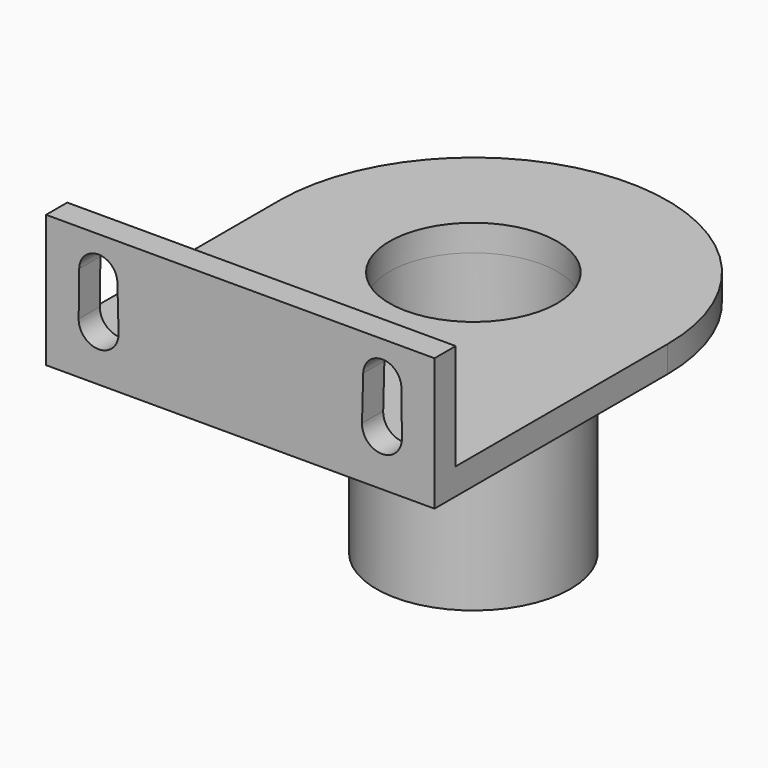
from build123d import *

# Parameters (mm, degrees)
F0_R     = 11
F0_R_2   = 9.5
F1_DEPTH = 3
F0_W     = 44
F0_H     = 3
F2_DEPTH = 15
F3_DEPTH = 25
F5_DEPTH = 50


with BuildPart() as f1:
    # F0 (on Top) → F1 (new body)
    with BuildSketch(Plane.XY):
        with BuildLine():
            Line((22, -30), (22, 0))
            ThreePointArc((22, 0), (0, -22), (-22, 0))
            Line((-22, 0), (-22, -30))
            Line((-22, -30), (22, -30))
        make_face()
        with BuildLine():
            ThreePointArc((-22, 0), (0, -22), (22, 0))
            ThreePointArc((22, 0), (0, 22), (-22, 0))
        make_face()
        Circle(F0_R, mode=Mode.SUBTRACT)
        Circle(F0_R)
        Circle(F0_R_2, mode=Mode.SUBTRACT)
    extrude(amount=F1_DEPTH)

    # F0 (on Top) → F2 (join)
    with BuildSketch(Plane.XY):
        with Locations((0, -31.5)):
            Rectangle(F0_W, F0_H)
    extrude(amount=F2_DEPTH)

    # F0 (on Top) → F3 (join)
    with BuildSketch(Plane.XY):
        Circle(F0_R)
        Circle(F0_R_2, mode=Mode.SUBTRACT)
    extrude(amount=-F3_DEPTH)

    # F4 (on Front) → F5 (cut)
    with BuildSketch(Plane.XZ):
        with BuildLine():
            ThreePointArc((-18.249251, 10.8364), (-16.097239, 8.645825), (-13.919441, 10.810768))
            ThreePointArc((-13.919441, 10.810768), (-13.91963, 10.839348), (-13.920196, 10.867923))
            ThreePointArc((-13.920196, 10.867923), (-16.100186, 12.975691), (-18.249251, 10.8364))
        make_face()
        with BuildLine():
            ThreePointArc((-13.920196, 10.867923), (-13.91963, 10.839348), (-13.919441, 10.810768))
            ThreePointArc((-13.919441, 10.810768), (-16.097239, 8.645825), (-18.249251, 10.8364))
            Line((-18.249251, 10.8364), (-18.308776, 5.809141))
            ThreePointArc((-18.308776, 5.809141), (-16.064272, 8.043438), (-13.787468, 5.842063))
            Line((-13.787468, 5.842063), (-13.920196, 10.867923))
        make_face()
        with BuildLine():
            ThreePointArc((-13.78668, 5.78237), (-13.786877, 5.812219), (-13.787468, 5.842063))
            ThreePointArc((-13.787468, 5.842063), (-16.064272, 8.043438), (-18.308776, 5.809141))
            ThreePointArc((-18.308776, 5.809141), (-16.061193, 3.521282), (-13.78668, 5.78237))
        make_face()
        with BuildLine():
            ThreePointArc((18.249403, 10.810768), (16.055842, 8.645976), (13.920196, 10.867923))
            Line((13.920196, 10.867923), (13.787468, 5.842063))
            ThreePointArc((13.787468, 5.842063), (16.064272, 8.043438), (18.308776, 5.809141))
            Line((18.308776, 5.809141), (18.249251, 10.8364))
            ThreePointArc((18.249251, 10.8364), (18.249365, 10.823584), (18.249403, 10.810768))
        make_face()
        with BuildLine():
            ThreePointArc((18.249251, 10.8364), (16.100186, 12.975691), (13.920196, 10.867923))
            ThreePointArc((13.920196, 10.867923), (16.055842, 8.645976), (18.249403, 10.810768))
            ThreePointArc((18.249403, 10.810768), (18.249365, 10.823584), (18.249251, 10.8364))
        make_face()
        with BuildLine():
            ThreePointArc((18.308776, 5.809141), (16.064272, 8.043438), (13.787468, 5.842063))
            ThreePointArc((13.787468, 5.842063), (16.017958, 3.52144), (18.308935, 5.78237))
            ThreePointArc((18.308935, 5.78237), (18.308895, 5.795756), (18.308776, 5.809141))
        make_face()
    extrude(amount=F5_DEPTH, mode=Mode.SUBTRACT)


solid = f1.part
